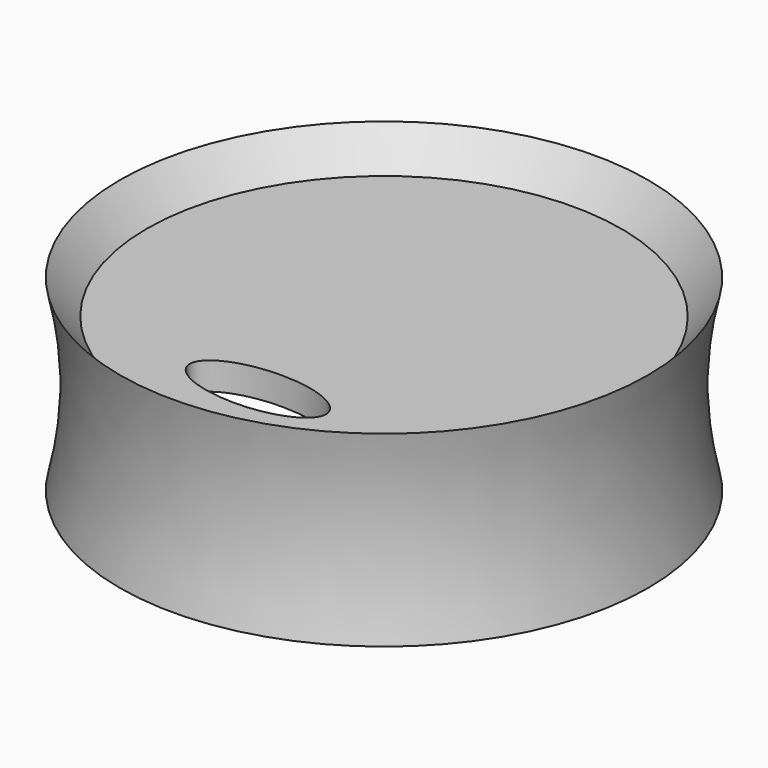
from build123d import *

# Parameters (mm, degrees)
F3_DEPTH = 27.941


with BuildPart() as f1:
    # F0 (on Front) → F1 (revolve)
    with BuildSketch(Plane.XZ):
        with BuildLine():
            Line((31.75, 18.74527), (31.75, 0))
            Line((31.75, 0), (39.37, 0))
            ThreePointArc((39.37, 0), (37.682642, 13.97), (39.37, 27.94))
            Line((39.37, 27.94), (35.356805, 22.86))
            Line((35.356805, 22.86), (0, 22.86))
            Line((0, 22.86), (0, 18.74527))
            Line((0, 18.74527), (31.75, 18.74527))
        make_face()
    revolve(axis=Axis((0, 0, 20.802635), (0, 0, -1)))

    # F2 (on Top) → F3 (cut, through all)
    with BuildSketch(Plane.XY):
        with BuildLine():
            add(Edge.make_bspline(
                [(0, -19.05), (-17.597636, -19.05), (-8.798818, -25.7175), (0, -32.385), (8.798818, -25.7175), (17.597636, -19.05), (0, -19.05)],
                knots=[4.712389, 4.712389, 4.712389, 6.806784, 6.806784, 8.901179, 8.901179, 10.995574, 10.995574, 10.995574], degree=2, weights=[1, 0.5, 1, 0.5, 1, 0.5, 1]))
        make_face()
    extrude(amount=F3_DEPTH, mode=Mode.SUBTRACT)


solid = f1.part
